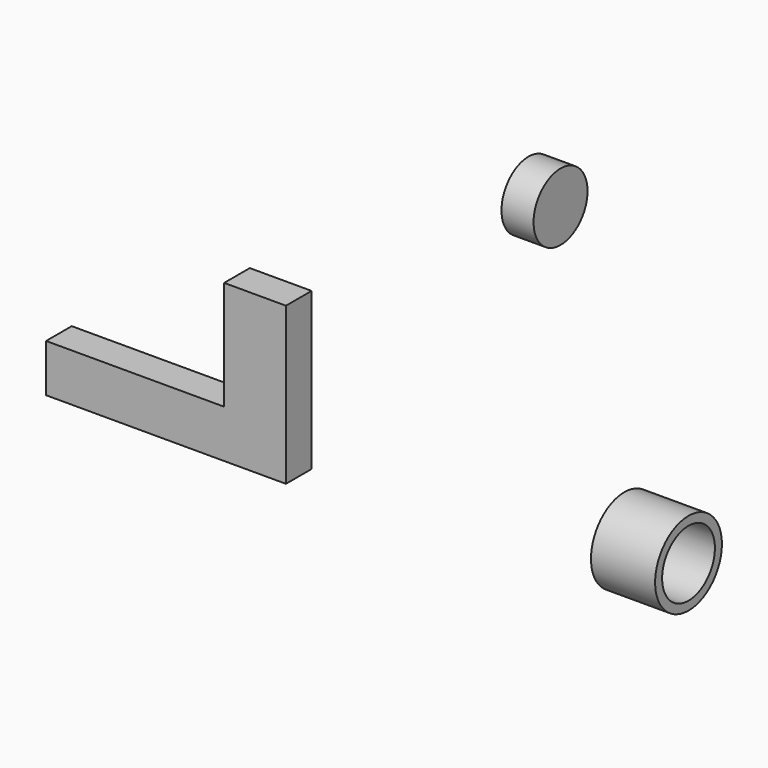
from build123d import *

# Parameters (mm, degrees)
F1_DEPTH = 2.54
F2_R     = 2.671203
F3_DEPTH = 2.54
F4_R     = 3.306854
F4_R_2   = 2.612631
F5_DEPTH = 5.08


with BuildPart() as f1:
    # F0 (on Front) → F1 (new body)
    with BuildSketch(Plane.XZ):
        Polygon((-38.709875, 27.219653), (-38.709875, 23.43416), (-19.714694, 23.43416), (-19.714694, 35.853826), (-24.607392, 35.853826), (-24.607392, 31.248933), (-24.607392, 27.219653), align=None)
    extrude(amount=F1_DEPTH)


with BuildPart() as f3:
    # F2 (on Right) → F3 (new body)
    with BuildSketch(Plane.YZ):
        with Locations((0, 48.131976)):
            Circle(F2_R)
    extrude(amount=-F3_DEPTH)


with BuildPart() as f5:
    # F4 (on Right) → F5 (new body)
    with BuildSketch(Plane.YZ):
        with Locations((6.318918, 22.362098)):
            Circle(F4_R)
        with Locations((6.318918, 22.362098)):
            Circle(F4_R_2, mode=Mode.SUBTRACT)
    extrude(amount=F5_DEPTH)


solid = Compound([f1.part, f3.part, f5.part])
